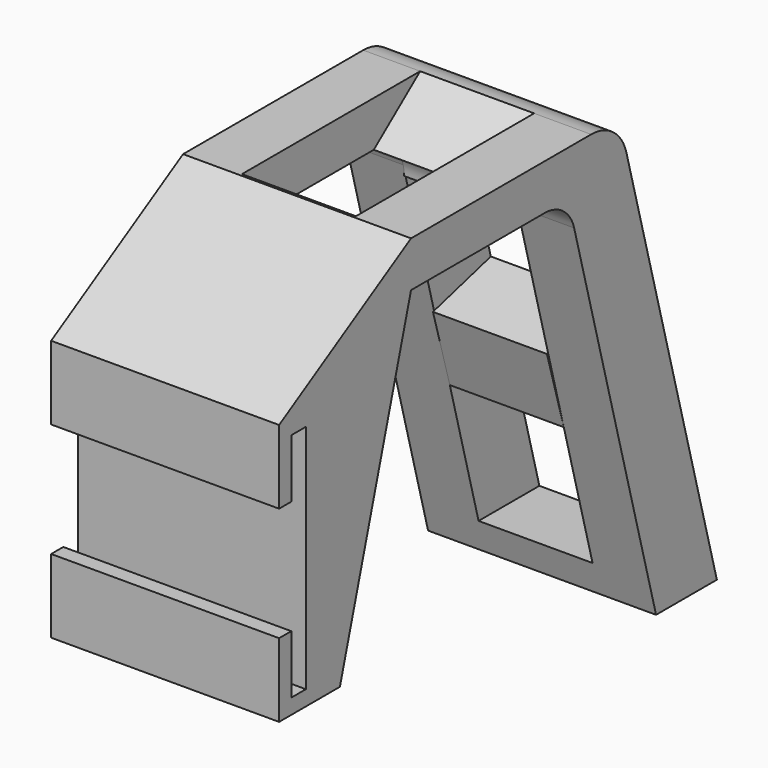
from build123d import *

# Parameters (mm, degrees)
SKETCH037_W     = 2.4
SKETCH037_H     = 30.4
PAD019_DEPTH    = 15
SKETCH038_W     = 15
SKETCH038_H     = 30
POCKET018_DEPTH = 4
SKETCH039_W     = 50
SKETCH039_H     = 15
POCKET019_DEPTH = 56
PAD022_DEPTH    = 15


with BuildPart() as part:
    # Sketch037 → Pad019 (new body, symmetric)
    with BuildSketch(Plane.YZ):
        with BuildLine():
            Line((0, 0), (22, 0))
            ThreePointArc((26.8296291314, -3.7059047745), (25.043807145, -1.0332332985), (22, 0))
            Line((26.8296291314, -3.7059047745), (40.3058913312, -54))
            Line((50.3058913312, -54), (40.3058913312, -54))
            Line((50.3058913312, -54), (35.4205328152, 1.5529142706))
            ThreePointArc((35.4205328152, 1.5529142706), (33.2775464315, 4.7601200417), (29.6249778574, 6))
            Line((29.6249778574, 6), (0, 6))
            Line((-21.7, -6.8), (0, 6))
            Line((-21.7, -6.8), (-21.7, -41.2))
            Line((-11.7, -41.2), (-21.7, -41.2))
            Line((0, 0), (-11.7, -41.2))
        make_face()
        with Locations((-18.5, -24)):
            Rectangle(SKETCH037_W, SKETCH037_H, mode=Mode.SUBTRACT)
    extrude(amount=PAD019_DEPTH, both=True)

    # Sketch038 (on Face10 of Pad019) → Pocket018 (cut)
    with BuildSketch(Plane(origin=(0, -21.7, 0), x_dir=(0, 0, -1), z_dir=(0, -1, 0))):
        with Locations((24, 0)):
            Rectangle(SKETCH038_W, SKETCH038_H)
    extrude(amount=-POCKET018_DEPTH, mode=Mode.SUBTRACT)

    # Sketch039 (on Face17 of Pocket018) → Pocket019 (cut)
    with BuildSketch(Plane(origin=(0, 0, 6), x_dir=(0, -1, 0), z_dir=(0, 0, 1))):
        with Locations((-25.3058913312, 0)):
            Rectangle(SKETCH039_W, SKETCH039_H)
    extrude(amount=-POCKET019_DEPTH, mode=Mode.SUBTRACT)

    # Sketch043 (on Face9 of Pocket019) → Pad022 (join)
    with BuildSketch(Plane(origin=(7.5, 0, 0), x_dir=(0, 1, 0), z_dir=(-1, 0, 0))):
        Polygon((34.5023642209, 32.3409419612), (31.7311897424, 22.7325814346), (41.2447676172, 20.1834259259), (43.8324912398, 29.8409419612), align=None)
        with BuildLine():
            Line((22, 0), (29.6249778574, -6))
            ThreePointArc((29.6249778574, -6), (33.2775464315, -4.7601200417), (35.4205328152, -1.5529142706))
            Line((26.9994594018, 5.0735233958), (35.4205328152, -1.5529142706))
            ThreePointArc((22, 0), (25.561433488, 1.4905568091), (26.9994594018, 5.0735233958))
        make_face()
    extrude(amount=PAD022_DEPTH)


with BuildPart() as part_1:
    # Body016 placement: moved
    add(part.part.moved(Location((-242, 0, 0))))


solid = part_1.part
